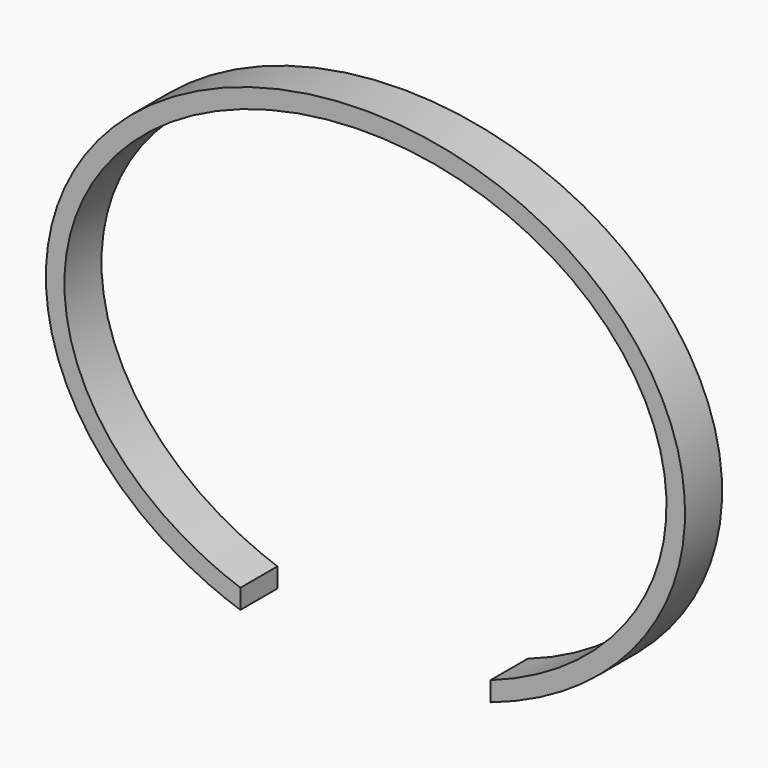
from build123d import *

# Parameters (mm, degrees)
F1_DEPTH = 5


with BuildPart() as f1:
    # F0 (on Front) → F1 (new body)
    with BuildSketch(Plane.XZ):
        with BuildLine():
            add(Edge.make_bspline(
                [(13.5, -22.7411469217), (51.093898727, -9.535731529), (25.5469493635, 15.4537557569), (0, 40.4432430428), (-25.5469493635, 15.4537557569), (-51.093898727, -9.535731529), (-13.5, -22.7411469217)],
                knots=[5.1407545614, 5.1407545614, 5.1407545614, 6.9495726098, 6.9495726098, 8.7583906582, 8.7583906582, 10.5672087066, 10.5672087066, 10.5672087066], degree=2, weights=[1, 0.6181502303, 1, 0.6181502303, 1, 0.6181502303, 1]))
            Line((13.5, -22.7411469217), (13.5, -24.8470557909))
            add(Edge.make_bspline(
                [(13.5, -24.8470557909), (54.6102083911, -11.1666855926), (27.3051041956, 16.5032354219), (0, 44.1731564365), (-27.3051041956, 16.5032354219), (-54.6102083911, -11.1666855926), (-13.5, -24.8470557909)],
                knots=[5.1144375135, 5.1144375135, 5.1144375135, 6.9408002605, 6.9408002605, 8.7671630075, 8.7671630075, 10.5935257545, 10.5935257545, 10.5935257545], degree=2, weights=[1, 0.6112309416, 1, 0.6112309416, 1, 0.6112309416, 1]))
            Line((-13.5, -24.8470557909), (-13.5, -22.7411469217))
        make_face()
    extrude(amount=F1_DEPTH)


solid = f1.part
